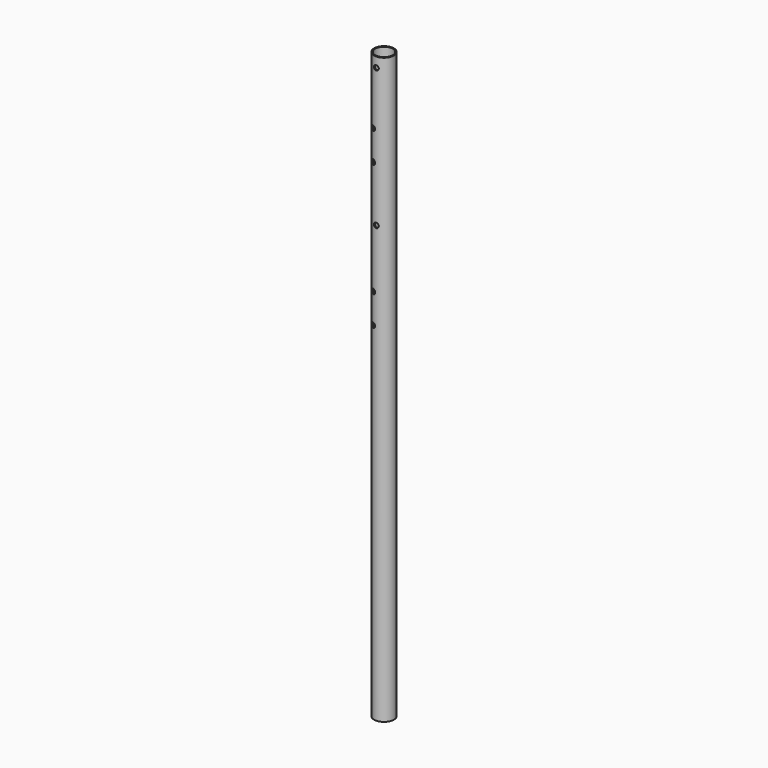
from build123d import *

# Parameters (mm, degrees)
F0_R     = 12.7
F0_R_2   = 11.2
F1_DEPTH = 749.3
F2_R     = 3.175
F3_DEPTH = 12.7
F6_R     = 3.175
F7_DEPTH = 12.7


with BuildPart() as f1:
    # F0 (on Top) → F1 (new body)
    with BuildSketch(Plane.XY):
        Circle(F0_R)
        Circle(F0_R_2, mode=Mode.SUBTRACT)
    extrude(amount=F1_DEPTH)

    # F2 (on Front) → F3 (cut, symmetric)
    with BuildSketch(Plane.XZ):
        with Locations((0, 558.8)):
            Circle(F2_R)
        with Locations((0, 736.6)):
            Circle(F2_R)
    extrude(amount=F3_DEPTH, both=True, mode=Mode.SUBTRACT)

    # F6 (on face) → F7 (cut, symmetric)
    with BuildSketch(Plane(origin=(0, 0, 0), x_dir=(-0.939693, 0.34202, 0), z_dir=(0.34202, 0.939693, 0))):
        with Locations((0, 628.65)):
            Circle(F6_R)
        with Locations((0, 666.75)):
            Circle(F6_R)
        with Locations((0, 444.5)):
            Circle(F6_R)
        with Locations((0, 482.6)):
            Circle(F6_R)
    extrude(amount=F7_DEPTH, both=True, mode=Mode.SUBTRACT)


solid = f1.part
